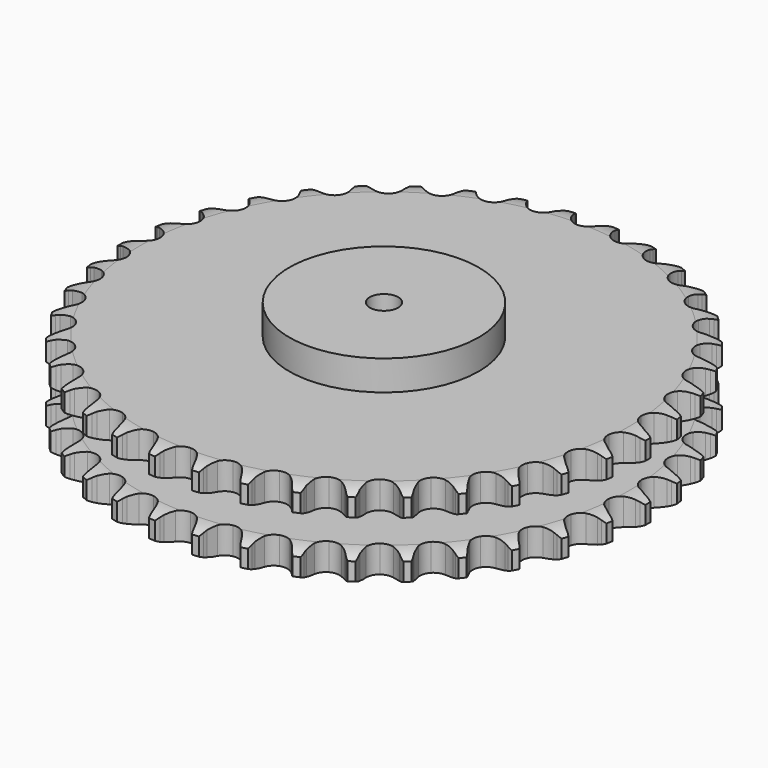
from build123d import *

# Parameters (mm, degrees)
PAD_DEPTH         = 88.4
SKETCH001_R       = 100
PAD001_DEPTH      = 120
SKETCH002_R       = 15
POCKET_DEPTH      = 0.001
POCKET_DEPTH_BACK = 120.001


with BuildPart() as part:
    # Sprocket → Pad (new body)
    with BuildSketch(Plane.XY):
        with BuildLine():
            ThreePointArc((-23.404569, 282.451142), (-20.007845, 278.41142), (-17.634608, 273.697097))
            Line((-17.634608, 273.697097), (-16.272023, 269.964101))
            ThreePointArc((-16.272023, 269.964101), (-14.121513, 265.175471), (-11.305108, 260.745625))
            ThreePointArc((-11.305108, 260.745625), (-6.327801, 256.55942), (0, 255.057145))
            ThreePointArc((0, 255.057145), (6.327801, 256.55942), (11.305108, 260.745625))
            ThreePointArc((11.305108, 260.745625), (14.121513, 265.175471), (16.272023, 269.964101))
            Line((16.272023, 269.964101), (17.634608, 273.697097))
            ThreePointArc((17.634608, 273.697097), (20.007845, 278.41142), (23.404569, 282.451142))
            ThreePointArc((23.404569, 282.451142), (26.09005, 277.907434), (27.654967, 272.866787))
            Line((27.654967, 272.866787), (28.384536, 268.96043))
            ThreePointArc((28.384536, 268.96043), (29.717534, 263.883148), (31.766399, 259.050154))
            ThreePointArc((31.766399, 259.050154), (35.986795, 254.101805), (41.981026, 251.578498))
            ThreePointArc((41.981026, 251.578498), (48.469791, 252.018762), (54.06824, 255.328634))
            Line((54.06824, 255.328634), (60.484725, 263.603856))
            ThreePointArc((60.484725, 263.603856), (61.416757, 265.359484), (62.443156, 267.061665))
            ThreePointArc((62.443156, 267.061665), (65.559977, 271.321068), (69.575291, 274.746611))
            ThreePointArc((69.575291, 274.746611), (71.476276, 269.822858), (72.190186, 264.593381))
            Line((72.190186, 264.593381), (72.26684, 260.620219))
            ThreePointArc((72.26684, 260.620219), (72.745964, 255.39278), (73.9714, 250.28847))
            ThreePointArc((73.9714, 250.28847), (77.319764, 244.712956), (82.81692, 241.237445))
            ThreePointArc((82.81692, 241.237445), (89.289651, 240.603689), (95.356532, 242.946945))
            Line((95.356532, 242.946945), (103.047561, 250.053184))
            ThreePointArc((103.047561, 250.053184), (104.255848, 251.631461), (105.548418, 253.141486))
            ThreePointArc((105.548418, 253.141486), (109.323805, 256.829784), (113.848181, 259.547709))
            ThreePointArc((113.848181, 259.547709), (114.912815, 254.378217), (114.756245, 249.102558))
            Line((114.756245, 249.102558), (114.177893, 245.170968))
            ThreePointArc((114.177893, 245.170968), (113.790074, 239.935963), (114.158655, 234.699569))
            ThreePointArc((114.158655, 234.699569), (116.543652, 228.648976), (121.393783, 224.316064))
            ThreePointArc((121.393783, 224.316064), (127.673922, 222.625575), (134.043746, 223.938296))
            Line((134.043746, 223.938296), (142.799528, 229.681714))
            ThreePointArc((142.799528, 229.681714), (144.251111, 231.039587), (145.774594, 232.316267))
            ThreePointArc((145.774594, 232.316267), (150.105564, 235.332854), (155.015589, 237.269022))
            ThreePointArc((155.015589, 237.269022), (155.214832, 231.994802), (154.192053, 226.816867))
            Line((154.192053, 226.816867), (152.97447, 223.034092))
            ThreePointArc((152.97447, 223.034092), (151.730287, 217.934319), (151.231959, 212.708676))
            ThreePointArc((151.231959, 212.708676), (152.588533, 206.348047), (156.659341, 201.275925))
            ThreePointArc((156.659341, 201.275925), (162.575581, 198.574815), (169.074596, 198.821194))
            Line((169.074596, 198.821194), (178.656296, 203.045125))
            ThreePointArc((178.656296, 203.045125), (180.31158, 204.145556), (182.02442, 205.154067))
            ThreePointArc((182.02442, 205.154067), (186.792834, 207.416657), (191.954576, 208.518254))
            ThreePointArc((191.954576, 208.518254), (191.282994, 203.283174), (189.421904, 198.344203))
            Line((189.421904, 198.344203), (187.598303, 194.813428))
            ThreePointArc((187.598303, 194.813428), (185.531693, 189.987995), (184.180049, 184.915644))
            ThreePointArc((184.180049, 184.915644), (184.471197, 178.418481), (187.65164, 172.745504))
            ThreePointArc((187.65164, 172.745504), (193.042603, 169.107453), (199.493532, 168.280768))
            Line((199.493532, 168.280768), (209.639786, 170.869994))
            ThreePointArc((209.639786, 170.869994), (211.453619, 171.682966), (213.309094, 172.395798))
            ThreePointArc((213.309094, 172.395798), (218.384883, 173.842674), (223.657542, 174.079652))
            ThreePointArc((223.657542, 174.079652), (222.133454, 169.02651), (219.484819, 164.461226))
            Line((219.484819, 164.461226), (217.104943, 161.278761))
            ThreePointArc((217.104943, 161.278761), (214.272279, 156.859293), (212.104188, 152.078596))
            ThreePointArc((212.104188, 152.078596), (211.321967, 145.622125), (213.525292, 139.503036))
            ThreePointArc((213.525292, 139.503036), (218.243925, 135.027279), (224.470804, 133.150082))
            Line((224.470804, 133.150082), (234.904849, 134.033975))
            ThreePointArc((234.904849, 134.033975), (236.827755, 134.537312), (238.775251, 134.935021))
            ThreePointArc((238.775251, 134.935021), (244.019962, 135.526716), (249.259714, 134.892611))
            ThreePointArc((249.259714, 134.892611), (246.924692, 130.159244), (243.56076, 126.092175))
            Line((243.56076, 126.092175), (240.689526, 123.344829))
            ThreePointArc((240.689526, 123.344829), (237.168076, 119.451879), (234.242678, 115.09324))
            ThreePointArc((234.242678, 115.09324), (232.408425, 108.853576), (233.57453, 102.455288))
            ThreePointArc((233.57453, 102.455288), (237.492122, 97.263914), (243.325098, 94.387408))
            Line((243.325098, 94.387408), (253.762321, 93.541859))
            ThreePointArc((253.762321, 93.541859), (255.741847, 93.721831), (257.728242, 93.793569))
            ThreePointArc((257.728242, 93.793569), (262.998812, 93.513943), (268.06273, 92.026052))
            ThreePointArc((268.06273, 92.026052), (264.980469, 87.741573), (260.992999, 84.283659))
            Line((260.992999, 84.283659), (257.708726, 82.046373))
            ThreePointArc((257.708726, 82.046373), (253.594545, 78.786128), (249.991638, 74.968441))
            ThreePointArc((249.991638, 74.968441), (247.155386, 69.115786), (247.252464, 62.612828))
            ThreePointArc((247.252464, 62.612828), (250.262153, 56.847442), (255.542118, 53.050092))
            Line((255.542118, 53.050092), (265.697817, 50.498165))
            ThreePointArc((265.697817, 50.498165), (267.679968, 50.349863), (269.651079, 50.093672))
            ThreePointArc((269.651079, 50.093672), (274.80374, 48.950353), (279.553694, 46.649261))
            ThreePointArc((279.553694, 46.649261), (275.808269, 42.930541), (271.306029, 40.176104))
            Line((271.306029, 40.176104), (267.698304, 38.509905))
            ThreePointArc((267.698304, 38.509905), (263.103617, 35.971298), (258.921478, 32.798698))
            ThreePointArc((258.921478, 32.798698), (255.160594, 27.492697), (254.185996, 21.062452))
            ThreePointArc((254.185996, 21.062452), (256.205685, 14.880321), (260.788614, 10.265708))
            Line((260.788614, 10.265708), (270.38577, 6.077013))
            ThreePointArc((270.38577, 6.077013), (272.316477, 5.604482), (274.218537, 5.027351))
            ThreePointArc((274.218537, 5.027351), (279.112738, 3.051525), (283.419162, 0))
            ThreePointArc((283.419162, 0), (279.112738, -3.051525), (274.218537, -5.027351))
            Line((274.218537, -5.027351), (270.38577, -6.077013))
            ThreePointArc((270.38577, -6.077013), (265.435907, -7.824735), (260.788614, -10.265708))
            ThreePointArc((260.788614, -10.265708), (256.205685, -14.880321), (254.185996, -21.062452))
            ThreePointArc((254.185996, -21.062452), (255.160594, -27.492697), (258.921478, -32.798698))
            Line((258.921478, -32.798698), (267.698304, -38.509905))
            ThreePointArc((267.698304, -38.509905), (269.524903, -39.293775), (271.306029, -40.176104))
            ThreePointArc((271.306029, -40.176104), (275.808269, -42.930541), (279.553694, -46.649261))
            ThreePointArc((279.553694, -46.649261), (274.80374, -48.950353), (269.651079, -50.093672))
            Line((269.651079, -50.093672), (265.697817, -50.498165))
            ThreePointArc((265.697817, -50.498165), (260.527798, -51.407331), (255.542118, -53.050092))
            ThreePointArc((255.542118, -53.050092), (250.262153, -56.847442), (247.252464, -62.612828))
            ThreePointArc((247.252464, -62.612828), (247.155386, -69.115786), (249.991638, -74.968441))
            Line((249.991638, -74.968441), (257.708726, -82.046373))
            ThreePointArc((257.708726, -82.046373), (259.381391, -83.1202), (260.992999, -84.283659))
            ThreePointArc((260.992999, -84.283659), (264.980469, -87.741573), (268.06273, -92.026052))
            ThreePointArc((268.06273, -92.026052), (262.998812, -93.513943), (257.728242, -93.793569))
            Line((257.728242, -93.793569), (253.762321, -93.541859))
            ThreePointArc((253.762321, -93.541859), (248.51317, -93.587668), (243.325098, -94.387408))
            ThreePointArc((243.325098, -94.387408), (237.492122, -97.263914), (233.57453, -102.455288))
            ThreePointArc((233.57453, -102.455288), (232.408425, -108.853576), (234.242678, -115.09324))
            Line((234.242678, -115.09324), (240.689526, -123.344829))
            ThreePointArc((240.689526, -123.344829), (242.162632, -124.679323), (243.56076, -126.092175))
            ThreePointArc((243.56076, -126.092175), (246.924692, -130.159244), (249.259714, -134.892611))
            ThreePointArc((249.259714, -134.892611), (244.019962, -135.526716), (238.775251, -134.935021))
            Line((238.775251, -134.935021), (234.904849, -134.033975))
            ThreePointArc((234.904849, -134.033975), (229.719751, -133.215178), (224.470804, -133.150082))
            ThreePointArc((224.470804, -133.150082), (218.243925, -135.027279), (213.525292, -139.503036))
            ThreePointArc((213.525292, -139.503036), (211.321967, -145.622125), (212.104188, -152.078596))
            Line((212.104188, -152.078596), (217.104943, -161.278761))
            ThreePointArc((217.104943, -161.278761), (218.338307, -162.837518), (219.484819, -164.461226))
            ThreePointArc((219.484819, -164.461226), (222.133454, -169.02651), (223.657542, -174.079652))
            ThreePointArc((223.657542, -174.079652), (218.384883, -173.842674), (213.309094, -172.395798))
            Line((213.309094, -172.395798), (209.639786, -170.869994))
            ThreePointArc((209.639786, -170.869994), (204.660175, -169.208924), (199.493532, -168.280768))
            ThreePointArc((199.493532, -168.280768), (193.042603, -169.107453), (187.65164, -172.745504))
            ThreePointArc((187.65164, -172.745504), (184.471197, -178.418481), (184.180049, -184.915644))
            Line((184.180049, -184.915644), (187.598303, -194.813428))
            ThreePointArc((187.598303, -194.813428), (188.558283, -196.553931), (189.421904, -198.344203))
            ThreePointArc((189.421904, -198.344203), (191.282994, -203.283174), (191.954576, -208.518254))
            ThreePointArc((191.954576, -208.518254), (186.792834, -207.416657), (182.02442, -205.154067))
            Line((182.02442, -205.154067), (178.656296, -203.045125))
            ThreePointArc((178.656296, -203.045125), (174.018003, -200.587093), (169.074596, -198.821194))
            ThreePointArc((169.074596, -198.821194), (162.575581, -198.574815), (156.659341, -201.275925))
            ThreePointArc((156.659341, -201.275925), (152.588533, -206.348047), (151.231959, -212.708676))
            Line((151.231959, -212.708676), (152.97447, -223.034092))
            ThreePointArc((152.97447, -223.034092), (153.63488, -224.908865), (154.192053, -226.816867))
            ThreePointArc((154.192053, -226.816867), (155.214832, -231.994802), (155.015589, -237.269022))
            ThreePointArc((155.015589, -237.269022), (150.105564, -235.332854), (145.774594, -232.316267))
            Line((145.774594, -232.316267), (142.799528, -229.681714))
            ThreePointArc((142.799528, -229.681714), (138.629074, -226.493768), (134.043746, -223.938296))
            ThreePointArc((134.043746, -223.938296), (127.673922, -222.625575), (121.393783, -224.316064))
            ThreePointArc((121.393783, -224.316064), (116.543652, -228.648976), (114.158655, -234.699569))
            Line((114.158655, -234.699569), (114.177893, -245.170968))
            ThreePointArc((114.177893, -245.170968), (114.520718, -247.128871), (114.756245, -249.102558))
            ThreePointArc((114.756245, -249.102558), (114.912815, -254.378217), (113.848181, -259.547709))
            ThreePointArc((113.848181, -259.547709), (109.323805, -256.829784), (105.548418, -253.141486))
            Line((105.548418, -253.141486), (103.047561, -250.053184))
            ThreePointArc((103.047561, -250.053184), (99.458705, -246.222284), (95.356532, -242.946945))
            ThreePointArc((95.356532, -242.946945), (89.289651, -240.603689), (82.81692, -241.237445))
            ThreePointArc((82.81692, -241.237445), (77.319764, -244.712956), (73.9714, -250.28847))
            Line((73.9714, -250.28847), (72.26684, -260.620219))
            ThreePointArc((72.26684, -260.620219), (72.282729, -262.607846), (72.190186, -264.593381))
            ThreePointArc((72.190186, -264.593381), (71.476276, -269.822858), (69.575291, -274.746611))
            ThreePointArc((69.575291, -274.746611), (65.559977, -271.321068), (62.443156, -267.061665))
            Line((62.443156, -267.061665), (60.484725, -263.603856))
            ThreePointArc((60.484725, -263.603856), (57.575362, -259.234498), (54.06824, -255.328634))
            ThreePointArc((54.06824, -255.328634), (48.469791, -252.018762), (41.981026, -251.578498))
            ThreePointArc((41.981026, -251.578498), (35.986795, -254.101805), (31.766399, -259.050154))
            Line((31.766399, -259.050154), (28.384536, -268.96043))
            ThreePointArc((28.384536, -268.96043), (28.073056, -270.923564), (27.654967, -272.866787))
            ThreePointArc((27.654967, -272.866787), (26.09005, -277.907434), (23.404569, -282.451142))
            ThreePointArc((23.404569, -282.451142), (20.007845, -278.41142), (17.634608, -273.697097))
            Line((17.634608, -273.697097), (16.272023, -269.964101))
            ThreePointArc((16.272023, -269.964101), (14.121513, -265.175471), (11.305108, -260.745625))
            ThreePointArc((11.305108, -260.745625), (6.327801, -256.55942), (0, -255.057145))
            ThreePointArc((0, -255.057145), (-6.327801, -256.55942), (-11.305108, -260.745625))
            Line((-11.305108, -260.745625), (-16.272023, -269.964101))
            ThreePointArc((-16.272023, -269.964101), (-16.902377, -271.849193), (-17.634608, -273.697097))
            ThreePointArc((-17.634608, -273.697097), (-20.007845, -278.41142), (-23.404569, -282.451142))
            ThreePointArc((-23.404569, -282.451142), (-26.09005, -277.907434), (-27.654967, -272.866787))
            Line((-27.654967, -272.866787), (-28.384536, -268.96043))
            ThreePointArc((-28.384536, -268.96043), (-29.717534, -263.883148), (-31.766399, -259.050154))
            ThreePointArc((-31.766399, -259.050154), (-35.986795, -254.101805), (-41.981026, -251.578498))
            ThreePointArc((-41.981026, -251.578498), (-48.469791, -252.018762), (-54.06824, -255.328634))
            Line((-54.06824, -255.328634), (-60.484725, -263.603856))
            ThreePointArc((-60.484725, -263.603856), (-61.416757, -265.359484), (-62.443156, -267.061665))
            ThreePointArc((-62.443156, -267.061665), (-65.559977, -271.321068), (-69.575291, -274.746611))
            ThreePointArc((-69.575291, -274.746611), (-71.476276, -269.822858), (-72.190186, -264.593381))
            Line((-72.190186, -264.593381), (-72.26684, -260.620219))
            ThreePointArc((-72.26684, -260.620219), (-72.745964, -255.39278), (-73.9714, -250.28847))
            ThreePointArc((-73.9714, -250.28847), (-77.319764, -244.712956), (-82.81692, -241.237445))
            ThreePointArc((-82.81692, -241.237445), (-89.289651, -240.603689), (-95.356532, -242.946945))
            Line((-95.356532, -242.946945), (-103.047561, -250.053184))
            ThreePointArc((-103.047561, -250.053184), (-104.255848, -251.631461), (-105.548418, -253.141486))
            ThreePointArc((-105.548418, -253.141486), (-109.323805, -256.829784), (-113.848181, -259.547709))
            ThreePointArc((-113.848181, -259.547709), (-114.912815, -254.378217), (-114.756245, -249.102558))
            Line((-114.756245, -249.102558), (-114.177893, -245.170968))
            ThreePointArc((-114.177893, -245.170968), (-113.790074, -239.935963), (-114.158655, -234.699569))
            ThreePointArc((-114.158655, -234.699569), (-116.543652, -228.648976), (-121.393783, -224.316064))
            ThreePointArc((-121.393783, -224.316064), (-127.673922, -222.625575), (-134.043746, -223.938296))
            Line((-134.043746, -223.938296), (-142.799528, -229.681714))
            ThreePointArc((-142.799528, -229.681714), (-144.251111, -231.039587), (-145.774594, -232.316267))
            ThreePointArc((-145.774594, -232.316267), (-150.105564, -235.332854), (-155.015589, -237.269022))
            ThreePointArc((-155.015589, -237.269022), (-155.214832, -231.994802), (-154.192053, -226.816867))
            Line((-154.192053, -226.816867), (-152.97447, -223.034092))
            ThreePointArc((-152.97447, -223.034092), (-151.730287, -217.934319), (-151.231959, -212.708676))
            ThreePointArc((-151.231959, -212.708676), (-152.588533, -206.348047), (-156.659341, -201.275925))
            ThreePointArc((-156.659341, -201.275925), (-162.575581, -198.574815), (-169.074596, -198.821194))
            Line((-169.074596, -198.821194), (-178.656296, -203.045125))
            ThreePointArc((-178.656296, -203.045125), (-180.31158, -204.145556), (-182.02442, -205.154067))
            ThreePointArc((-182.02442, -205.154067), (-186.792834, -207.416657), (-191.954576, -208.518254))
            ThreePointArc((-191.954576, -208.518254), (-191.282994, -203.283174), (-189.421904, -198.344203))
            Line((-189.421904, -198.344203), (-187.598303, -194.813428))
            ThreePointArc((-187.598303, -194.813428), (-185.531693, -189.987995), (-184.180049, -184.915644))
            ThreePointArc((-184.180049, -184.915644), (-184.471197, -178.418481), (-187.65164, -172.745504))
            ThreePointArc((-187.65164, -172.745504), (-193.042603, -169.107453), (-199.493532, -168.280768))
            Line((-199.493532, -168.280768), (-209.639786, -170.869994))
            ThreePointArc((-209.639786, -170.869994), (-211.453619, -171.682966), (-213.309094, -172.395798))
            ThreePointArc((-213.309094, -172.395798), (-218.384883, -173.842674), (-223.657542, -174.079652))
            ThreePointArc((-223.657542, -174.079652), (-222.133454, -169.02651), (-219.484819, -164.461226))
            Line((-219.484819, -164.461226), (-217.104943, -161.278761))
            ThreePointArc((-217.104943, -161.278761), (-214.272279, -156.859293), (-212.104188, -152.078596))
            ThreePointArc((-212.104188, -152.078596), (-211.321967, -145.622125), (-213.525292, -139.503036))
            ThreePointArc((-213.525292, -139.503036), (-218.243925, -135.027279), (-224.470804, -133.150082))
            Line((-224.470804, -133.150082), (-234.904849, -134.033975))
            ThreePointArc((-234.904849, -134.033975), (-236.827755, -134.537312), (-238.775251, -134.935021))
            ThreePointArc((-238.775251, -134.935021), (-244.019962, -135.526716), (-249.259714, -134.892611))
            ThreePointArc((-249.259714, -134.892611), (-246.924692, -130.159244), (-243.56076, -126.092175))
            Line((-243.56076, -126.092175), (-240.689526, -123.344829))
            ThreePointArc((-240.689526, -123.344829), (-237.168076, -119.451879), (-234.242678, -115.09324))
            ThreePointArc((-234.242678, -115.09324), (-232.408425, -108.853576), (-233.57453, -102.455288))
            ThreePointArc((-233.57453, -102.455288), (-237.492122, -97.263914), (-243.325098, -94.387408))
            Line((-243.325098, -94.387408), (-253.762321, -93.541859))
            ThreePointArc((-253.762321, -93.541859), (-255.741847, -93.721831), (-257.728242, -93.793569))
            ThreePointArc((-257.728242, -93.793569), (-262.998812, -93.513943), (-268.06273, -92.026052))
            ThreePointArc((-268.06273, -92.026052), (-264.980469, -87.741573), (-260.992999, -84.283659))
            Line((-260.992999, -84.283659), (-257.708726, -82.046373))
            ThreePointArc((-257.708726, -82.046373), (-253.594545, -78.786128), (-249.991638, -74.968441))
            ThreePointArc((-249.991638, -74.968441), (-247.155386, -69.115786), (-247.252464, -62.612828))
            ThreePointArc((-247.252464, -62.612828), (-250.262153, -56.847442), (-255.542118, -53.050092))
            Line((-255.542118, -53.050092), (-265.697817, -50.498165))
            ThreePointArc((-265.697817, -50.498165), (-267.679968, -50.349863), (-269.651079, -50.093672))
            ThreePointArc((-269.651079, -50.093672), (-274.80374, -48.950353), (-279.553694, -46.649261))
            ThreePointArc((-279.553694, -46.649261), (-275.808269, -42.930541), (-271.306029, -40.176104))
            Line((-271.306029, -40.176104), (-267.698304, -38.509905))
            ThreePointArc((-267.698304, -38.509905), (-263.103617, -35.971298), (-258.921478, -32.798698))
            ThreePointArc((-258.921478, -32.798698), (-255.160594, -27.492697), (-254.185996, -21.062452))
            ThreePointArc((-254.185996, -21.062452), (-256.205685, -14.880321), (-260.788614, -10.265708))
            Line((-260.788614, -10.265708), (-270.38577, -6.077013))
            ThreePointArc((-270.38577, -6.077013), (-272.316477, -5.604482), (-274.218537, -5.027351))
            ThreePointArc((-274.218537, -5.027351), (-279.112738, -3.051525), (-283.419162, 0))
            ThreePointArc((-283.419162, 0), (-279.112738, 3.051525), (-274.218537, 5.027351))
            Line((-274.218537, 5.027351), (-270.38577, 6.077013))
            ThreePointArc((-270.38577, 6.077013), (-265.435907, 7.824735), (-260.788614, 10.265708))
            ThreePointArc((-260.788614, 10.265708), (-256.205685, 14.880321), (-254.185996, 21.062452))
            ThreePointArc((-254.185996, 21.062452), (-255.160594, 27.492697), (-258.921478, 32.798698))
            Line((-258.921478, 32.798698), (-267.698304, 38.509905))
            ThreePointArc((-267.698304, 38.509905), (-269.524903, 39.293775), (-271.306029, 40.176104))
            ThreePointArc((-271.306029, 40.176104), (-275.808269, 42.930541), (-279.553694, 46.649261))
            ThreePointArc((-279.553694, 46.649261), (-274.80374, 48.950353), (-269.651079, 50.093672))
            Line((-269.651079, 50.093672), (-265.697817, 50.498165))
            ThreePointArc((-265.697817, 50.498165), (-260.527798, 51.407331), (-255.542118, 53.050092))
            ThreePointArc((-255.542118, 53.050092), (-250.262153, 56.847442), (-247.252464, 62.612828))
            ThreePointArc((-247.252464, 62.612828), (-247.155386, 69.115786), (-249.991638, 74.968441))
            Line((-249.991638, 74.968441), (-257.708726, 82.046373))
            ThreePointArc((-257.708726, 82.046373), (-259.381391, 83.1202), (-260.992999, 84.283659))
            ThreePointArc((-260.992999, 84.283659), (-264.980469, 87.741573), (-268.06273, 92.026052))
            ThreePointArc((-268.06273, 92.026052), (-262.998812, 93.513943), (-257.728242, 93.793569))
            Line((-257.728242, 93.793569), (-253.762321, 93.541859))
            ThreePointArc((-253.762321, 93.541859), (-248.51317, 93.587668), (-243.325098, 94.387408))
            ThreePointArc((-243.325098, 94.387408), (-237.492122, 97.263914), (-233.57453, 102.455288))
            ThreePointArc((-233.57453, 102.455288), (-232.408425, 108.853576), (-234.242678, 115.09324))
            Line((-234.242678, 115.09324), (-240.689526, 123.344829))
            ThreePointArc((-240.689526, 123.344829), (-242.162632, 124.679323), (-243.56076, 126.092175))
            ThreePointArc((-243.56076, 126.092175), (-246.924692, 130.159244), (-249.259714, 134.892611))
            ThreePointArc((-249.259714, 134.892611), (-244.019962, 135.526716), (-238.775251, 134.935021))
            Line((-238.775251, 134.935021), (-234.904849, 134.033975))
            ThreePointArc((-234.904849, 134.033975), (-229.719751, 133.215178), (-224.470804, 133.150082))
            ThreePointArc((-224.470804, 133.150082), (-218.243925, 135.027279), (-213.525292, 139.503036))
            ThreePointArc((-213.525292, 139.503036), (-211.321967, 145.622125), (-212.104188, 152.078596))
            Line((-212.104188, 152.078596), (-217.104943, 161.278761))
            ThreePointArc((-217.104943, 161.278761), (-218.338307, 162.837518), (-219.484819, 164.461226))
            ThreePointArc((-219.484819, 164.461226), (-222.133454, 169.02651), (-223.657542, 174.079652))
            ThreePointArc((-223.657542, 174.079652), (-218.384883, 173.842674), (-213.309094, 172.395798))
            Line((-213.309094, 172.395798), (-209.639786, 170.869994))
            ThreePointArc((-209.639786, 170.869994), (-204.660175, 169.208924), (-199.493532, 168.280768))
            ThreePointArc((-199.493532, 168.280768), (-193.042603, 169.107453), (-187.65164, 172.745504))
            ThreePointArc((-187.65164, 172.745504), (-184.471197, 178.418481), (-184.180049, 184.915644))
            Line((-184.180049, 184.915644), (-187.598303, 194.813428))
            ThreePointArc((-187.598303, 194.813428), (-188.558283, 196.553931), (-189.421904, 198.344203))
            ThreePointArc((-189.421904, 198.344203), (-191.282994, 203.283174), (-191.954576, 208.518254))
            ThreePointArc((-191.954576, 208.518254), (-186.792834, 207.416657), (-182.02442, 205.154067))
            Line((-182.02442, 205.154067), (-178.656296, 203.045125))
            ThreePointArc((-178.656296, 203.045125), (-174.018003, 200.587093), (-169.074596, 198.821194))
            ThreePointArc((-169.074596, 198.821194), (-162.575581, 198.574815), (-156.659341, 201.275925))
            ThreePointArc((-156.659341, 201.275925), (-152.588533, 206.348047), (-151.231959, 212.708676))
            Line((-151.231959, 212.708676), (-152.97447, 223.034092))
            ThreePointArc((-152.97447, 223.034092), (-153.63488, 224.908865), (-154.192053, 226.816867))
            ThreePointArc((-154.192053, 226.816867), (-155.214832, 231.994802), (-155.015589, 237.269022))
            ThreePointArc((-155.015589, 237.269022), (-150.105564, 235.332854), (-145.774594, 232.316267))
            Line((-145.774594, 232.316267), (-142.799528, 229.681714))
            ThreePointArc((-142.799528, 229.681714), (-138.629074, 226.493768), (-134.043746, 223.938296))
            ThreePointArc((-134.043746, 223.938296), (-127.673922, 222.625575), (-121.393783, 224.316064))
            ThreePointArc((-121.393783, 224.316064), (-116.543652, 228.648976), (-114.158655, 234.699569))
            Line((-114.158655, 234.699569), (-114.177893, 245.170968))
            ThreePointArc((-114.177893, 245.170968), (-114.520718, 247.128871), (-114.756245, 249.102558))
            ThreePointArc((-114.756245, 249.102558), (-114.912815, 254.378217), (-113.848181, 259.547709))
            ThreePointArc((-113.848181, 259.547709), (-109.323805, 256.829784), (-105.548418, 253.141486))
            Line((-105.548418, 253.141486), (-103.047561, 250.053184))
            ThreePointArc((-103.047561, 250.053184), (-99.458705, 246.222284), (-95.356532, 242.946945))
            ThreePointArc((-95.356532, 242.946945), (-89.289651, 240.603689), (-82.81692, 241.237445))
            ThreePointArc((-82.81692, 241.237445), (-77.319764, 244.712956), (-73.9714, 250.28847))
            Line((-73.9714, 250.28847), (-72.26684, 260.620219))
            ThreePointArc((-72.26684, 260.620219), (-72.282729, 262.607846), (-72.190186, 264.593381))
            ThreePointArc((-72.190186, 264.593381), (-71.476276, 269.822858), (-69.575291, 274.746611))
            ThreePointArc((-69.575291, 274.746611), (-65.559977, 271.321068), (-62.443156, 267.061665))
            Line((-62.443156, 267.061665), (-60.484725, 263.603856))
            ThreePointArc((-60.484725, 263.603856), (-57.575362, 259.234498), (-54.06824, 255.328634))
            ThreePointArc((-54.06824, 255.328634), (-48.469791, 252.018762), (-41.981026, 251.578498))
            ThreePointArc((-41.981026, 251.578498), (-35.986795, 254.101805), (-31.766399, 259.050154))
            Line((-31.766399, 259.050154), (-28.384536, 268.96043))
            ThreePointArc((-28.384536, 268.96043), (-28.073056, 270.923564), (-27.654967, 272.866787))
            ThreePointArc((-27.654967, 272.866787), (-26.09005, 277.907434), (-23.404569, 282.451142))
        make_face()
    extrude(amount=PAD_DEPTH)

    # Sketch → Groove (revolve, cut)
    with BuildSketch(Plane.XZ):
        with BuildLine():
            ThreePointArc((258.128451, 0), (268.61654, 1.268279), (278.5, 5))
            Line((278.5, 5), (278.5, 23.8))
            ThreePointArc((278.5, 23.8), (268.61654, 27.531721), (258.128451, 28.8))
            Line((100, 28.8), (258.128451, 28.8))
            Line((100, 59.6), (100, 28.8))
            Line((258.128451, 59.6), (100, 59.6))
            ThreePointArc((258.128451, 59.6), (268.61654, 60.868279), (278.5, 64.6))
            Line((278.5, 64.6), (278.5, 83.4))
            ThreePointArc((278.5, 83.4), (268.61654, 87.131721), (258.128451, 88.4))
            Line((258.128451, 88.4), (288.5, 88.4))
            Line((288.5, 88.4), (288.5, 0))
            Line((258.128451, 0), (288.5, 0))
        make_face()
    revolve(axis=Axis((0, 0, 0), (0, 0, 1)), mode=Mode.SUBTRACT)

    # Sketch001 → Pad001 (join)
    with BuildSketch(Plane.XY):
        Circle(SKETCH001_R)
    extrude(amount=PAD001_DEPTH)

    # Sketch002 → Pocket (cut, two sides)
    with BuildSketch(Plane.XY) as pocket_sk:
        Circle(SKETCH002_R)
    extrude(amount=-POCKET_DEPTH, mode=Mode.SUBTRACT)
    extrude(pocket_sk.sketch, amount=POCKET_DEPTH_BACK, mode=Mode.SUBTRACT)


solid = part.part
